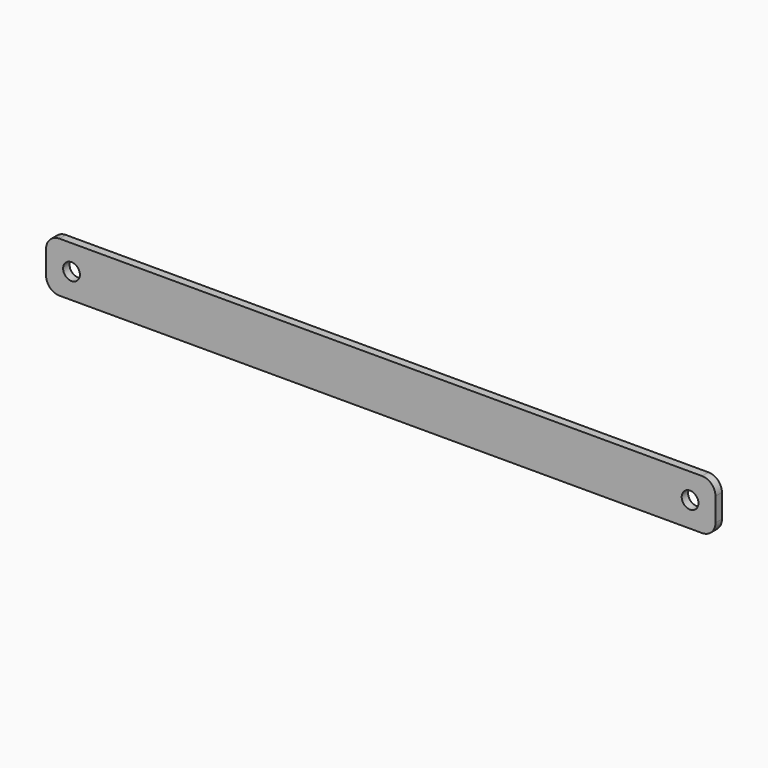
from build123d import *

# Parameters (mm, degrees)
F0_W     = 127
F0_H     = 9.525
F1_DEPTH = 1.524
F2_R     = 2.54
F4_D     = 3.175
F4_DEPTH = 19.05


with BuildPart() as f1:
    # F0 (on Front) → F1 (new body)
    with BuildSketch(Plane.XZ):
        Rectangle(F0_W, F0_H)
    extrude(amount=F1_DEPTH)

    # F2
    f2_edges = [f1.edges().sort_by_distance(p)[0] for p in [
        (-63.5, -0.762, 4.7625),
        (-63.5, -0.762, -4.7625),
        (63.5, -0.762, -4.7625),
        (63.5, -0.762, 4.7625),
    ]]
    fillet(f2_edges, radius=F2_R)

    # F4
    with Locations(Plane.XZ.offset(1.524)):
        with Locations((-58.674, 0), (58.674, 0)):
            Hole(F4_D / 2, depth=F4_DEPTH)


solid = f1.part
